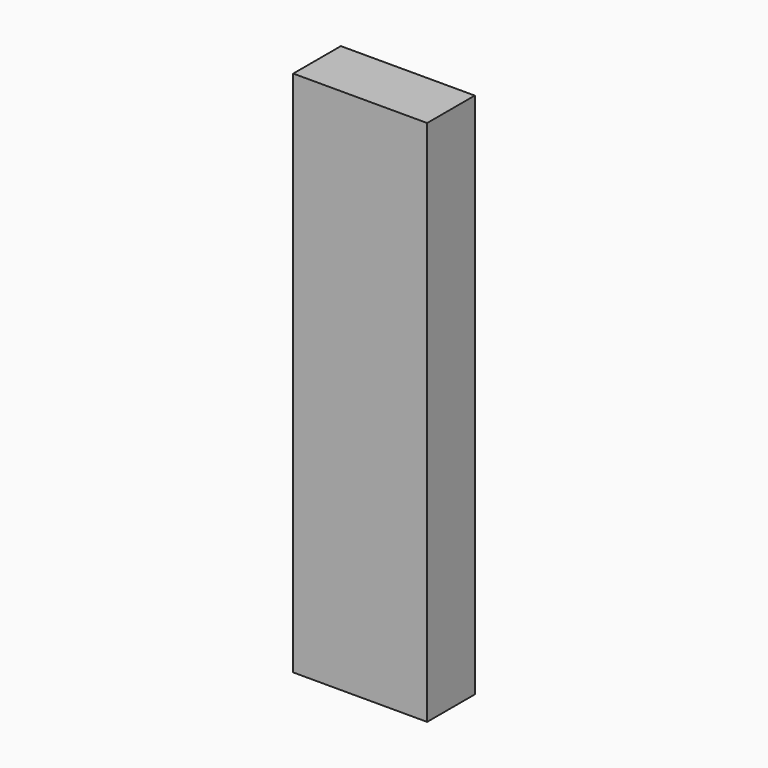
from build123d import *

# Parameters (mm, degrees)
RECTANGLE_W   = 0.02286
RECTANGLE_H   = 0.01016
EXTRUDE_DEPTH = 0.09


with BuildPart() as part:
    # Rectangle → Extrude (new body)
    with BuildSketch(Plane(origin=(-11.654827, -30.014048, 0), x_dir=(1, 0, 0), z_dir=(0, 0, 1))):
        with Locations((0.01143, 0.00508)):
            Rectangle(RECTANGLE_W, RECTANGLE_H)
    extrude(amount=EXTRUDE_DEPTH)


solid = part.part
